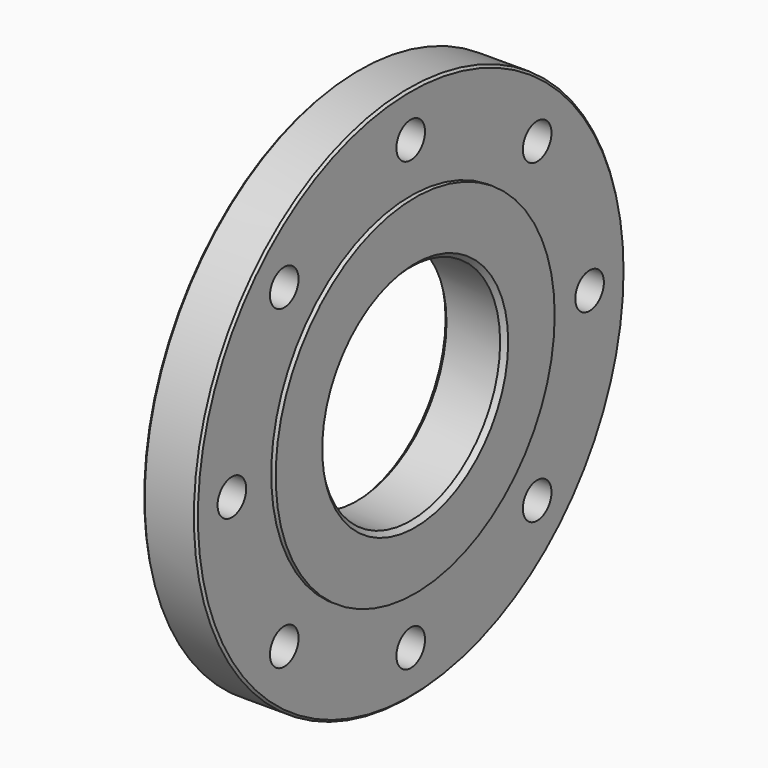
from build123d import *

# Parameters (mm, degrees)
F0_R     = 30
F0_R_2   = 2
F0_R_3   = 19.5
F1_DEPTH = 3
F0_R_4   = 12.5
F2_DEPTH = 3.5
F3_SIZE  = 0.5
F4_SIZE  = 0.25


with BuildPart() as f1:
    # F0 (on Right) → F1 (new body, symmetric)
    with BuildSketch(Plane.YZ):
        Circle(F0_R)
        with Locations((-17.67767, -17.67767)):
            Circle(F0_R_2, mode=Mode.SUBTRACT)
        with Locations((0, -25)):
            Circle(F0_R_2, mode=Mode.SUBTRACT)
        with Locations((17.67767, -17.67767)):
            Circle(F0_R_2, mode=Mode.SUBTRACT)
        with Locations((-25, 0)):
            Circle(F0_R_2, mode=Mode.SUBTRACT)
        with Locations((-17.67767, 17.67767)):
            Circle(F0_R_2, mode=Mode.SUBTRACT)
        Circle(F0_R_3, mode=Mode.SUBTRACT)
        with Locations((25, 0)):
            Circle(F0_R_2, mode=Mode.SUBTRACT)
        with Locations((0, 25)):
            Circle(F0_R_2, mode=Mode.SUBTRACT)
        with Locations((17.67767, 17.67767)):
            Circle(F0_R_2, mode=Mode.SUBTRACT)
    extrude(amount=F1_DEPTH, both=True)

    # F0 (on Right) → F2 (join, symmetric)
    with BuildSketch(Plane.YZ):
        Circle(F0_R_3)
        Circle(F0_R_4, mode=Mode.SUBTRACT)
    extrude(amount=F2_DEPTH, both=True)

    # F3
    f3_edges = [f1.edges().sort_by_distance(p)[0] for p in [
        (3.5, -12.5, 0),
        (0, 12.5, 0),
        (-3.5, -12.5, 0),
    ]]
    chamfer(f3_edges, length=F3_SIZE)

    # F4
    f4_edges = [f1.edges().sort_by_distance(p)[0] for p in [
        (-3, -30, 0),
        (0, 30, 0),
        (3, -30, 0),
    ]]
    chamfer(f4_edges, length=F4_SIZE)


solid = f1.part
